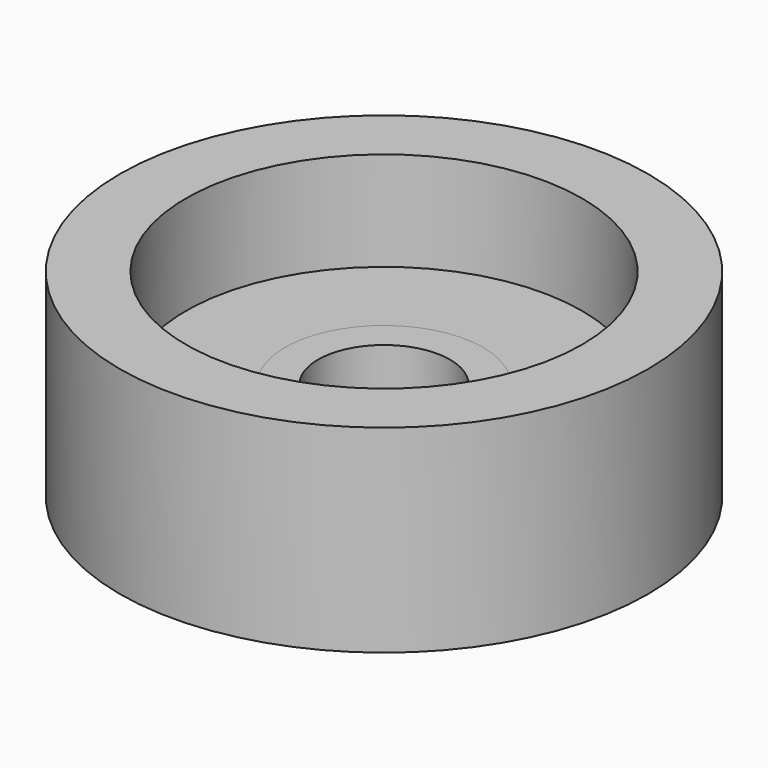
from build123d import *

# Parameters (mm, degrees)
F0_R        = 40
F0_R_2      = 30
F1_DEPTH    = 30
F0_R_3      = 15
F0_R_4      = 10
F2_DEPTH    = 20
F3_DEPTH    = 15
F2_FACE_R   = 15
F2_FACE_R_2 = 10
F4_DEPTH    = 5


with BuildPart() as f1:
    # F0 (on Top) → F1 (new body)
    with BuildSketch(Plane.XY):
        Circle(F0_R)
        Circle(F0_R_2, mode=Mode.SUBTRACT)
    extrude(amount=F1_DEPTH)


with BuildPart() as f2:
    # F0 (on Top) → F2 (new body)
    with BuildSketch(Plane.XY):
        Circle(F0_R_3)
        Circle(F0_R_4, mode=Mode.SUBTRACT)
    extrude(amount=F2_DEPTH)

    # F2_face (on face) → F4 (cut)
    with BuildSketch(Plane.XY.offset(20)):
        Circle(F2_FACE_R)
        Circle(F2_FACE_R_2, mode=Mode.SUBTRACT)
    extrude(amount=-F4_DEPTH, mode=Mode.SUBTRACT)


with BuildPart() as f3:
    # F0 (on Top) → F3 (new body)
    with BuildSketch(Plane.XY):
        Circle(F0_R_2)
        Circle(F0_R_3, mode=Mode.SUBTRACT)
    extrude(amount=F3_DEPTH)


solid = Compound([f1.part, f2.part, f3.part])
